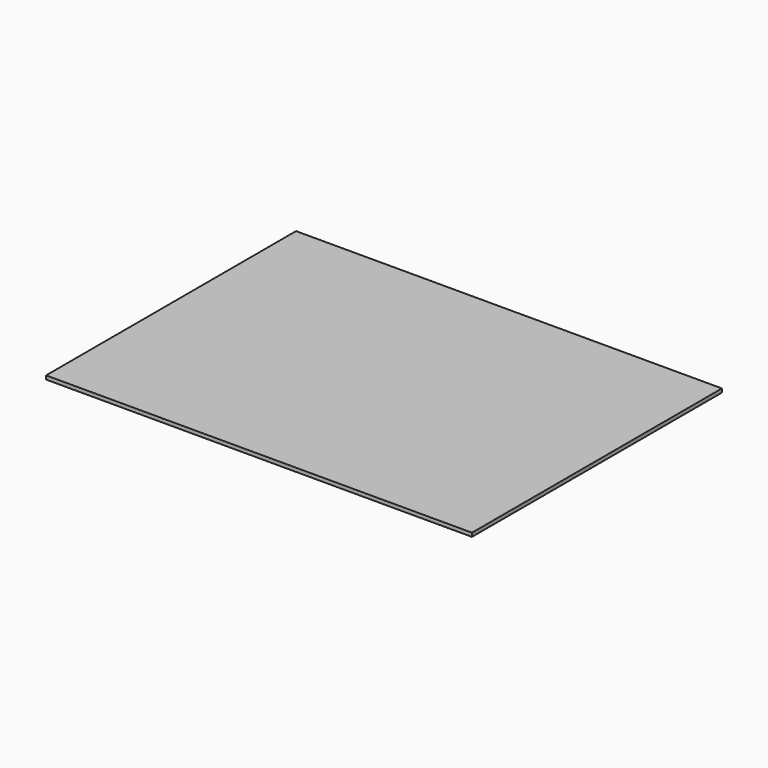
from build123d import *

# Parameters (mm, degrees)
F0_W     = 76.2
F0_H     = 76.2
F0_W_2   = 260.35
F0_H_2   = 228.6
F1_DEPTH = 12.7


with BuildPart() as f1:
    # F0 (on Top) → F1 (new body)
    with BuildSketch(Plane.XY):
        with Locations((-687.6007832497, 593.5238116688)):
            Rectangle(F0_W, F0_H)
        Polygon((652.2492167503, 631.6238116688), (-649.5007832497, 631.6238116688), (-649.5007832497, 555.4238116688), (-389.1507832497, 555.4238116688), (-128.8007832497, 555.4238116688), (131.5492167503, 555.4238116688), (391.8992167503, 555.4238116688), (652.2492167503, 555.4238116688), align=None)
        with Locations((-519.3257832497, 441.1238116688)):
            Rectangle(F0_W_2, F0_H_2)
        Polygon((-649.5007832497, 555.4238116688), (-725.7007832497, 555.4238116688), (-725.7007832497, -358.9761883312), (-649.5007832497, -358.9761883312), (-649.5007832497, -130.3761883312), (-649.5007832497, 98.2238116688), (-649.5007832497, 326.8238116688), align=None)
        with Locations((-687.6007832497, -397.0761883312)):
            Rectangle(F0_W, F0_H)
        Polygon((-389.1507832497, -358.9761883312), (-649.5007832497, -358.9761883312), (-649.5007832497, -435.1761883312), (652.2492167503, -435.1761883312), (652.2492167503, -358.9761883312), (391.8992167503, -358.9761883312), (131.5492167503, -358.9761883312), (-128.8007832497, -358.9761883312), align=None)
        Polygon((728.4492167503, 555.4238116688), (652.2492167503, 555.4238116688), (652.2492167503, 326.8238116688), (652.2492167503, 98.2238116688), (652.2492167503, -130.3761883312), (652.2492167503, -358.9761883312), (728.4492167503, -358.9761883312), align=None)
        with Locations((690.3492167503, -397.0761883312)):
            Rectangle(F0_W, F0_H)
        with Locations((690.3492167503, 593.5238116688)):
            Rectangle(F0_W, F0_H)
        with Locations((-258.9757832497, 441.1238116688)):
            Rectangle(F0_W_2, F0_H_2)
        with Locations((1.3742167503, 441.1238116688)):
            Rectangle(F0_W_2, F0_H_2)
        with Locations((261.7242167503, 441.1238116688)):
            Rectangle(F0_W_2, F0_H_2)
        with Locations((522.0742167503, 441.1238116688)):
            Rectangle(F0_W_2, F0_H_2)
        with Locations((522.0742167503, 212.5238116688)):
            Rectangle(F0_W_2, F0_H_2)
        with Locations((261.7242167503, 212.5238116688)):
            Rectangle(F0_W_2, F0_H_2)
        with Locations((1.3742167503, 212.5238116688)):
            Rectangle(F0_W_2, F0_H_2)
        with Locations((-258.9757832497, 212.5238116688)):
            Rectangle(F0_W_2, F0_H_2)
        with Locations((-519.3257832497, 212.5238116688)):
            Rectangle(F0_W_2, F0_H_2)
        with Locations((-519.3257832497, -16.0761883312)):
            Rectangle(F0_W_2, F0_H_2)
        with Locations((-258.9757832497, -16.0761883312)):
            Rectangle(F0_W_2, F0_H_2)
        with Locations((1.3742167503, -16.0761883312)):
            Rectangle(F0_W_2, F0_H_2)
        with Locations((261.7242167503, -16.0761883312)):
            Rectangle(F0_W_2, F0_H_2)
        with Locations((522.0742167503, -16.0761883312)):
            Rectangle(F0_W_2, F0_H_2)
        with Locations((522.0742167503, -244.6761883312)):
            Rectangle(F0_W_2, F0_H_2)
        with Locations((261.7242167503, -244.6761883312)):
            Rectangle(F0_W_2, F0_H_2)
        with Locations((1.3742167503, -244.6761883312)):
            Rectangle(F0_W_2, F0_H_2)
        with Locations((-258.9757832497, -244.6761883312)):
            Rectangle(F0_W_2, F0_H_2)
        with Locations((-519.3257832497, -244.6761883312)):
            Rectangle(F0_W_2, F0_H_2)
    extrude(amount=F1_DEPTH)


solid = f1.part
